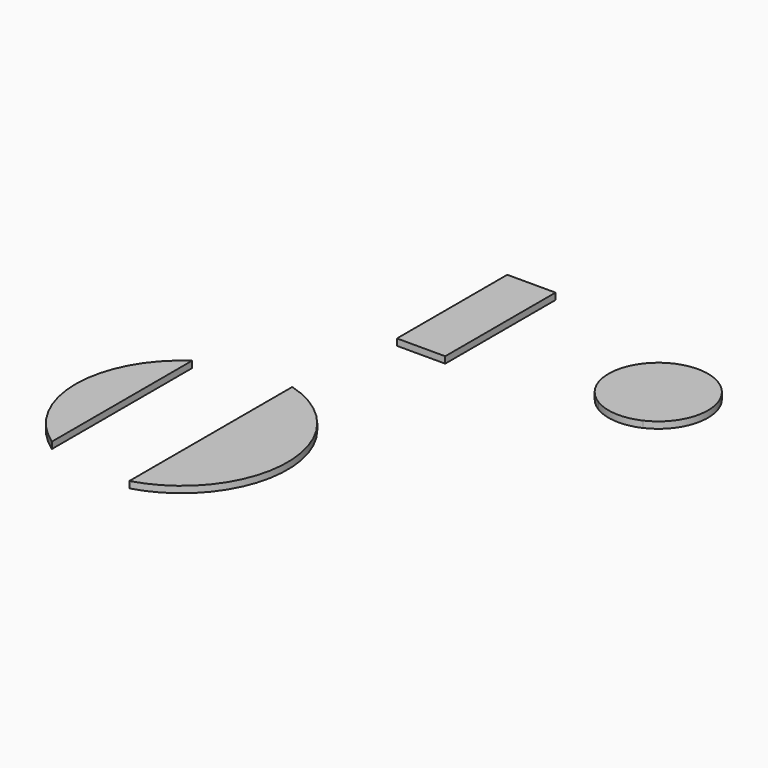
from build123d import *

# Parameters (mm, degrees)
F3_DEPTH = 19
F4_DEPTH = 19
F5_W     = 140
F5_H     = 400
F6_DEPTH = 19


with BuildPart() as f3:
    # F2 (on face) → F3 (new body)
    with BuildSketch(Plane.XY):
        with BuildLine():
            ThreePointArc((-252.043999, -96.389451), (-167.962492, 27.878954), (-239.862328, 159.570829))
            ThreePointArc((-239.862328, 159.570829), (-294.863017, 177.878387), (-352.62851, 173.042022))
            ThreePointArc((-352.62851, 173.042022), (-454.934226, 53.241562), (-386.50929, -88.66206))
            ThreePointArc((-386.50929, -88.66206), (-320.23454, -109.194219), (-252.043999, -96.389451))
        make_face()
    extrude(amount=F3_DEPTH)


with BuildPart() as f4:
    # F1 (on face) → F4 (new body)
    with BuildSketch(Plane.XY):
        with BuildLine():
            Line((-1232.758152, -1013.298184), (-1232.758152, -504.930846))
            ThreePointArc((-1232.758152, -504.930846), (-1367.284269, -759.114515), (-1232.758152, -1013.298184))
        make_face()
        with BuildLine():
            ThreePointArc((-975.11674, -1054.595652), (-752.484585, -759.114515), (-975.11674, -463.633378))
            Line((-975.11674, -463.633378), (-975.11674, -1054.595652))
        make_face()
    extrude(amount=F4_DEPTH)


with BuildPart() as f6:
    # F5 (on Top) → F6 (new body)
    with BuildSketch(Plane.XY):
        with Locations((-868.602335, 70.347804)):
            Rectangle(F5_W, F5_H)
    extrude(amount=F6_DEPTH)


solid = Compound([f3.part, f4.part, f6.part])
